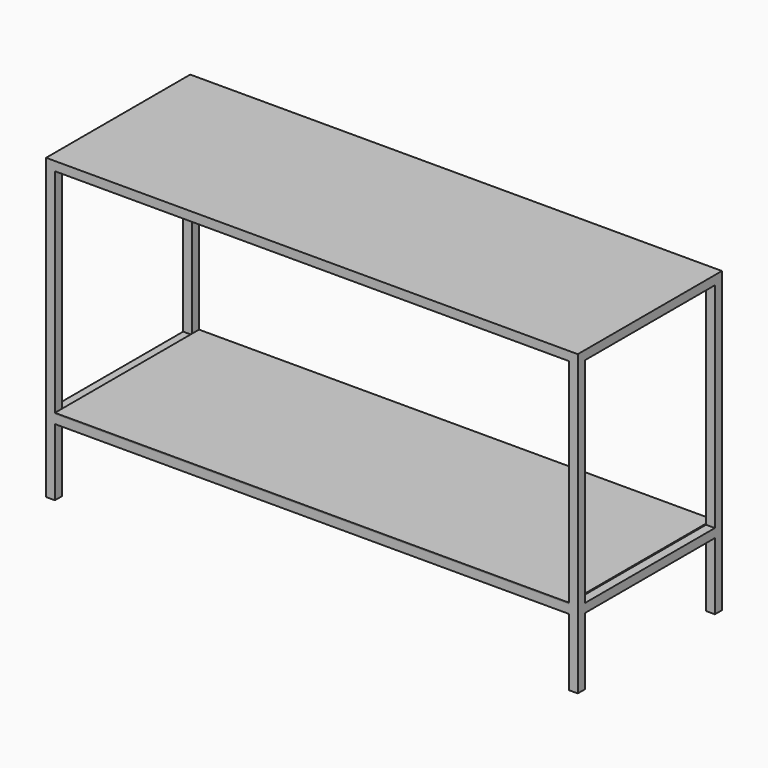
from build123d import *

# Parameters (mm, degrees)
F0_W      = 1505
F0_H      = 510
F1_DEPTH  = 25.4
F2_W      = 25
F2_H      = 25
F3_DEPTH  = 820
F4_W      = 25
F4_H      = 25
F5_DEPTH  = 460
F6_W      = 25
F6_H      = 25
F7_DEPTH  = 1455
F8_W      = 25
F8_H      = 25
F9_DEPTH  = 460
F10_W     = 25
F10_H     = 25
F11_DEPTH = 1455
F12_W     = 1455
F12_H     = 510
F13_DEPTH = 3


with BuildPart() as f1:
    # F0 (on Top) → F1 (new body)
    with BuildSketch(Plane.XY):
        Rectangle(F0_W, F0_H)
    extrude(amount=F1_DEPTH)

    # F2 (on face) → F3 (join)
    with BuildSketch(Plane(origin=(0, 0, 0), x_dir=(1, 0, 0), z_dir=(0, 0, -1))):
        with Locations((-740, 242.5)):
            Rectangle(F2_W, F2_H)
        with Locations((-740, -242.5)):
            Rectangle(F2_W, F2_H)
        with Locations((740, 242.5)):
            Rectangle(F2_W, F2_H)
        with Locations((740, -242.5)):
            Rectangle(F2_W, F2_H)
    extrude(amount=F3_DEPTH)

    # F4 (on face) → F5 (join, through all)
    with BuildSketch(Plane.XZ.offset(-230)):
        with Locations((-740, -617.5)):
            Rectangle(F4_W, F4_H)
    extrude(amount=F5_DEPTH)

    # F6 (on face) → F7 (join, through all)
    with BuildSketch(Plane.YZ.offset(-727.5)):
        with Locations((-242.5, -617.5)):
            Rectangle(F6_W, F6_H)
    extrude(amount=F7_DEPTH)

    # F8 (on face) → F9 (join, through all)
    with BuildSketch(Plane(origin=(0, -230, 0), x_dir=(-1, 0, 0), z_dir=(0, 1, 0))):
        with Locations((-740, -617.5)):
            Rectangle(F8_W, F8_H)
    extrude(amount=F9_DEPTH)

    # F10 (on face) → F11 (join, through all)
    with BuildSketch(Plane.YZ.offset(-727.5)):
        with Locations((242.5, -617.5)):
            Rectangle(F10_W, F10_H)
    extrude(amount=F11_DEPTH)


with BuildPart() as f13:
    # F12 (on face) → F13 (new body)
    with BuildSketch(Plane.XY.offset(-605)):
        Rectangle(F12_W, F12_H)
    extrude(amount=F13_DEPTH)


solid = Compound([f1.part, f13.part])
